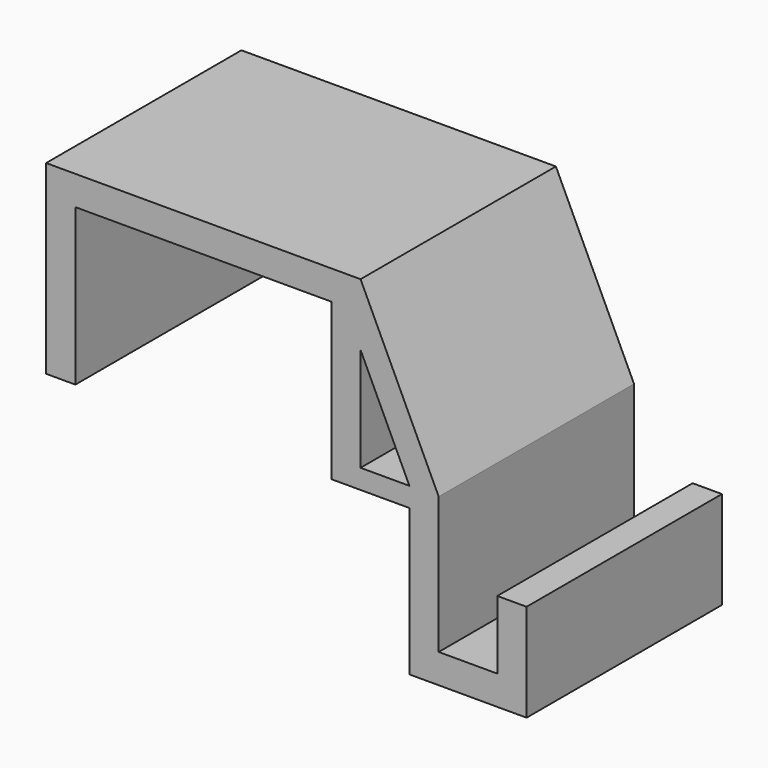
from build123d import *

# Parameters (mm, degrees)
F0_W     = 3
F0_H     = 16
F0_H_2   = 3
F0_W_2   = 26.2
F0_H_3   = 7
F1_DEPTH = 25


with BuildPart() as f1:
    # F0 (on Front) → F1 (new body)
    with BuildSketch(Plane.XZ):
        with Locations((-14.6, 0)):
            Rectangle(F0_W, F0_H)
        with Locations((-14.6, 9.5)):
            Rectangle(F0_W, F0_H_2)
        with Locations((0, 9.5)):
            Rectangle(F0_W_2, F0_H_2)
        with Locations((14.6, 9.5)):
            Rectangle(F0_W, F0_H_2)
        Polygon((13.1, 8), (13.1, -8), (16.1, -8), (16.1, -6), (16.1, 4.625), (16.1, 8), align=None)
        Polygon((16.1, 11), (16.1, 8), (16.1, 4.625), (21.1, -6), (24.1, -6), align=None)
        Polygon((16.1, -6), (16.1, -8), (21.1, -8), (24.1, -8), (24.1, -6), (21.1, -6), align=None)
        Polygon((24.1, -8), (21.1, -8), (21.1, -23), (24.1, -23), (24.1, -20), align=None)
        Polygon((30.1, -20), (24.1, -20), (24.1, -23), (33.1, -23), (33.1, -20), align=None)
        with Locations((31.6, -16.5)):
            Rectangle(F0_W, F0_H_3)
    extrude(amount=F1_DEPTH)


solid = f1.part
